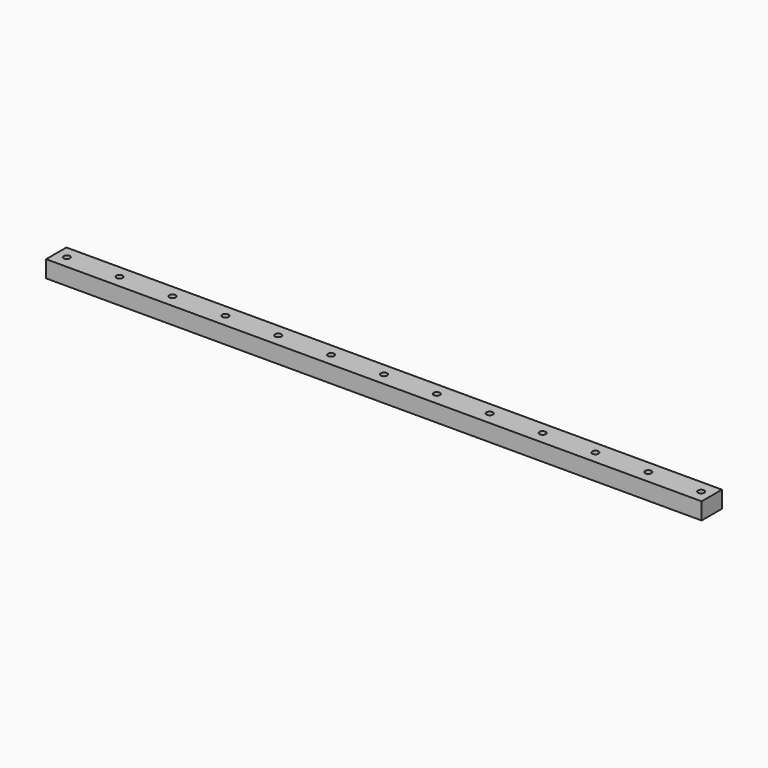
from build123d import *

# Parameters (mm, degrees)
SKETCH_W             = 12
SKETCH_H             = 8
PAD_DEPTH            = 310
SKETCH001_R          = 1.5
POCKET_DEPTH         = 8.001
LINEARPATTERN_COUNT  = 13
LINEARPATTERN_PITCH  = 25
BODY_ROLL_ANGLE      = 90
BODY_PLACEMENT_ANGLE = 90


with BuildPart() as part:
    # Sketch → Pad (new body)
    with BuildSketch(Plane.XY):
        Rectangle(SKETCH_W, SKETCH_H)
    extrude(amount=PAD_DEPTH)

    # Sketch001 (on Face3 of Pad) → Pocket (cut, through all)
    with BuildSketch(Plane.XZ.offset(4)):
        with Locations((0, 305)):
            Circle(SKETCH001_R)
    pocket = extrude(amount=-POCKET_DEPTH, mode=Mode.SUBTRACT)

    # LinearPattern: Pocket ×13
    with Locations(*[(0, 0, -i * LINEARPATTERN_PITCH) for i in range(1, LINEARPATTERN_COUNT)]):
        add(pocket, mode=Mode.SUBTRACT)


with BuildPart() as part_1:
    # Body roll: moved
    add(part.part.rotate(Axis((0, 0, 0), (1, 0, 0)), BODY_ROLL_ANGLE))


with BuildPart() as part_2:
    # Body placement: moved
    add(part_1.part.moved(Location((0, 6, 4))).rotate(Axis((0, 6, 4), (0, 0, 1)), BODY_PLACEMENT_ANGLE))


solid = part_2.part
